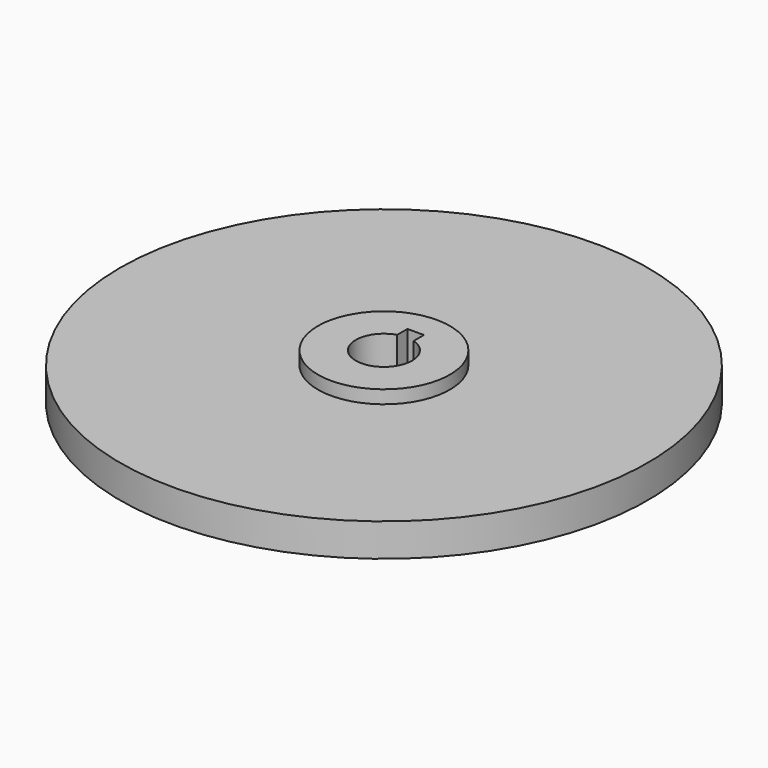
from build123d import *

# Parameters (mm, degrees)
F3_DEPTH = 25.4


with BuildPart() as f1:
    # F0 (on Front) → F1 (revolve)
    with BuildSketch(Plane.XZ):
        Polygon((0, 0), (0, 8.89), (-12.7, 8.89), (-12.7, 6.35), (-50.8, 6.35), (-50.8, 0), align=None)
    revolve(axis=Axis((0, 0, 4.445), (0, 0, 1)))

    # F2 (on face) → F3 (cut)
    with BuildSketch(Plane.XY.offset(8.89)):
        with BuildLine():
            Line((-1.5875, 7.649105), (-1.5875, 5.176359))
            ThreePointArc((-1.5875, 5.176359), (0, -5.414319), (1.5875, 5.176359))
            Line((1.5875, 5.176359), (1.5875, 7.649105))
            Line((1.5875, 7.649105), (-1.5875, 7.649105))
        make_face()
    extrude(amount=-F3_DEPTH, mode=Mode.SUBTRACT)


solid = f1.part
